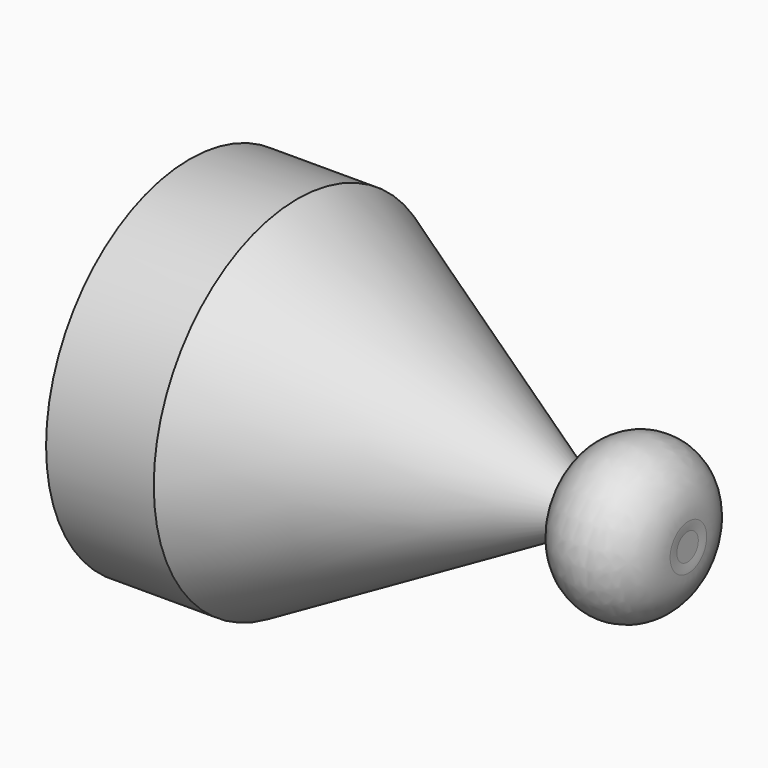
from build123d import *


with BuildPart() as f1:
    # F0 (on Front) → F1 (revolve)
    with BuildSketch(Plane.XZ):
        with BuildLine():
            Line((138.715774, 0), (138.715774, 3.739515))
            ThreePointArc((138.715774, 3.739515), (138.886971, 5.04837), (138.944181, 6.367134))
            ThreePointArc((138.944181, 6.367134), (123.778933, 21.59541), (108.487891, 6.493452))
            Line((108.487891, 6.493452), (30, 50))
            Line((30, 50), (0, 50))
            Line((0, 50), (0, 0))
            Line((0, 0), (138.715774, 0))
        make_face()
    revolve(axis=Axis((75, 0, 0), (1, 0, 0)))


solid = f1.part
